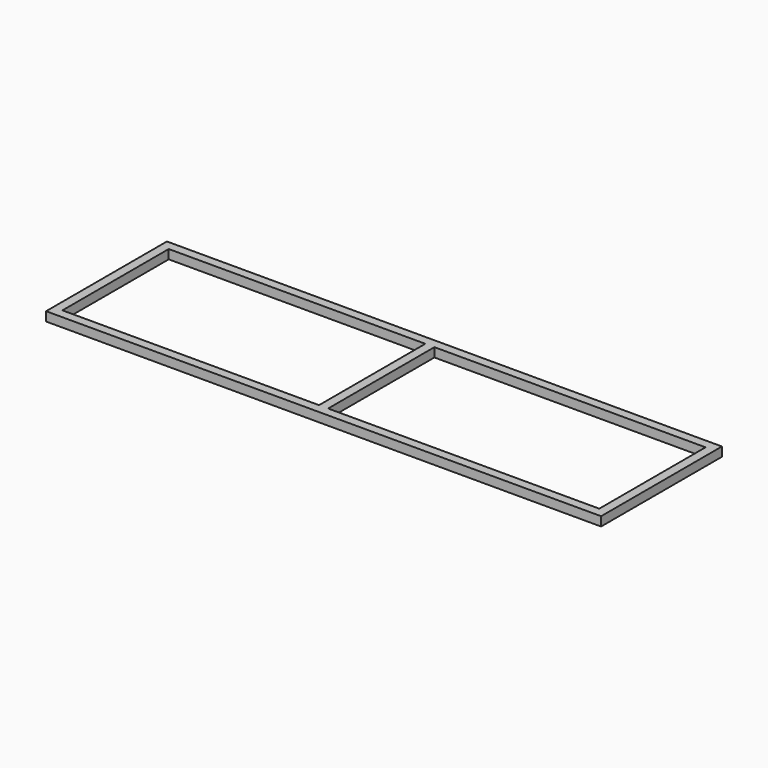
from build123d import *

# Parameters (mm, degrees)
F1_W     = 895.35
F1_H     = 463.55
F1_W_2   = 946.15
F2_DEPTH = 31.75


with BuildPart() as f2:
    # F1 (on offset) → F2 (new body)
    with BuildSketch(Plane.XY.offset(254)):
        Polygon((1457.325, 263.525), (479.425, 263.525), (-479.425, 263.525), (-479.425, -263.525), (479.425, -263.525), (1457.325, -263.525), align=None)
        Rectangle(F1_W, F1_H, mode=Mode.SUBTRACT)
        with Locations((952.5, 0)):
            Rectangle(F1_W_2, F1_H, mode=Mode.SUBTRACT)
    extrude(amount=F2_DEPTH)


solid = f2.part
